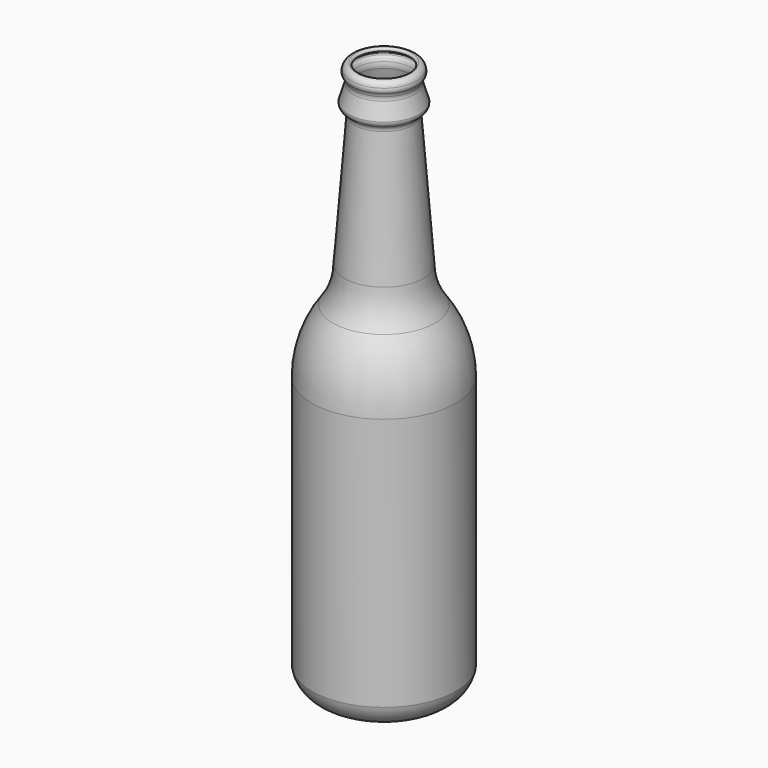
from build123d import *


with BuildPart() as f1:
    # F0 (on Front) → F1 (revolve)
    with BuildSketch(Plane.XZ):
        with BuildLine():
            Line((-22.611935, 1.687399), (0, 1.687399))
            Line((0, 1.687399), (0, 3.687399))
            Line((0, 3.687399), (-22.611935, 3.687399))
            ThreePointArc((-22.611935, 3.687399), (-30.949669, 6.70388), (-35.42735, 14.35681))
            Line((-35.42735, 14.35681), (-35.42735, 146.043832))
            ThreePointArc((-35.42735, 146.043832), (-32.727379, 162.860405), (-24.898866, 177.986586))
            ThreePointArc((-24.898866, 177.986586), (-20.202189, 187.308509), (-18.521703, 197.610596))
            Line((-18.521703, 197.610596), (-13.249276, 266.024603))
            ThreePointArc((-13.249276, 266.024603), (-13.818426, 268.839602), (-15.780927, 270.936443))
            ThreePointArc((-15.780927, 270.936443), (-16.255452, 271.362523), (-16.468103, 271.963769))
            Line((-16.468103, 271.963769), (-14.06079, 279.884624))
            ThreePointArc((-14.06079, 279.884624), (-13.819374, 281.442256), (-14.021835, 283.005429))
            ThreePointArc((-14.021835, 283.005429), (-14.431439, 284.347432), (-15.140318, 285.558314))
            ThreePointArc((-15.140318, 285.558314), (-15.263863, 286.044616), (-15.103557, 286.520069))
            ThreePointArc((-15.103557, 286.520069), (-14.853327, 287.361602), (-14.066502, 287.751088))
            ThreePointArc((-14.066502, 287.751088), (-13.169879, 288.795868), (-14.163637, 289.748728))
            ThreePointArc((-14.163637, 289.748728), (-16.137492, 288.909543), (-17.093485, 286.98954))
            ThreePointArc((-17.093485, 286.98954), (-17.24331, 285.66158), (-16.778914, 284.40848))
            ThreePointArc((-16.778914, 284.40848), (-16.258814, 283.534481), (-15.974365, 282.558024))
            ThreePointArc((-15.974365, 282.558024), (-15.818938, 281.512111), (-15.974365, 280.466199))
            Line((-15.974365, 280.466199), (-18.468469, 272.259772))
            ThreePointArc((-18.468469, 272.259772), (-18.062793, 270.488473), (-16.778914, 269.202501))
            ThreePointArc((-16.778914, 269.202501), (-15.587155, 267.905668), (-15.243363, 266.17828))
            Line((-15.243363, 266.17828), (-20.521074, 197.69571))
            ThreePointArc((-20.521074, 197.69571), (-22.091339, 187.96652), (-26.517589, 179.16134))
            ThreePointArc((-26.517589, 179.16134), (-34.629676, 163.477938), (-37.42735, 146.043832))
            Line((-37.42735, 146.043832), (-37.42735, 14.180624))
            ThreePointArc((-37.42735, 14.180624), (-32.301843, 5.227606), (-22.611935, 1.687399))
        make_face()
    revolve(axis=Axis((0, 0, 181.816936), (0, 0, 1)))


solid = f1.part
